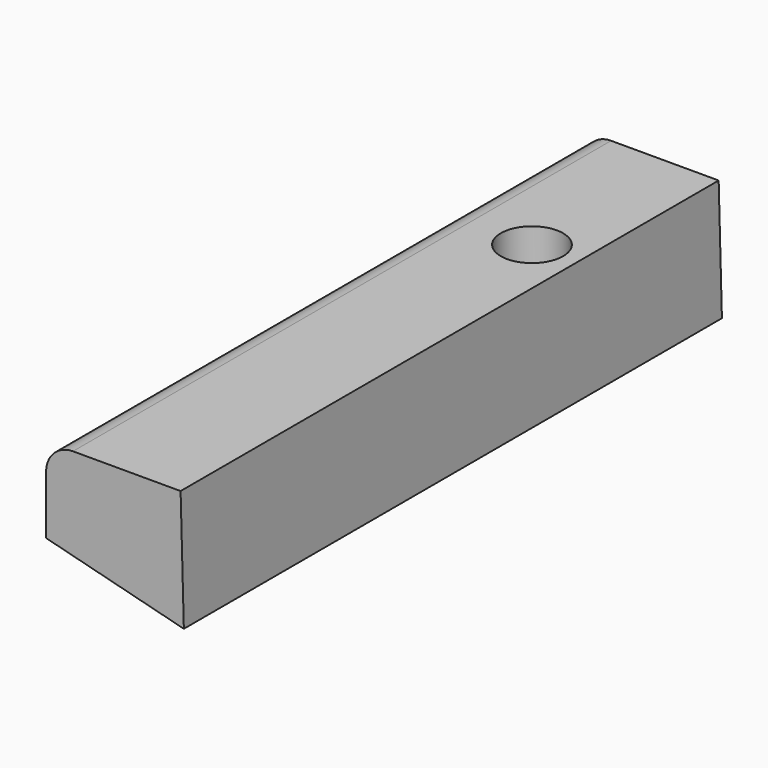
from build123d import *

# Parameters (mm, degrees)
F1_DEPTH = 63.5
F2_R     = 5.08
F3_R     = 5.881823
F4_DEPTH = 25.4


with BuildPart() as f1:
    # F0 (on Front) → F1 (new body, symmetric)
    with BuildSketch(Plane.XZ):
        Polygon((-16.709963, 12.094708), (-16.709963, -3.979688), (9.303563, -10.605776), (8.690037, 12.094708), align=None)
    extrude(amount=F1_DEPTH, both=True)

    # F2
    f2_edges = [f1.edges().sort_by_distance(p)[0] for p in [
        (-16.709963, 0, 12.094708),
    ]]
    fillet(f2_edges, radius=F2_R)

    # F3 (on face) → F4 (cut)
    with BuildSketch(Plane.XY.offset(12.094708)):
        with Locations((0, 30.291276)):
            Circle(F3_R)
    extrude(amount=-F4_DEPTH, mode=Mode.SUBTRACT)


solid = f1.part
